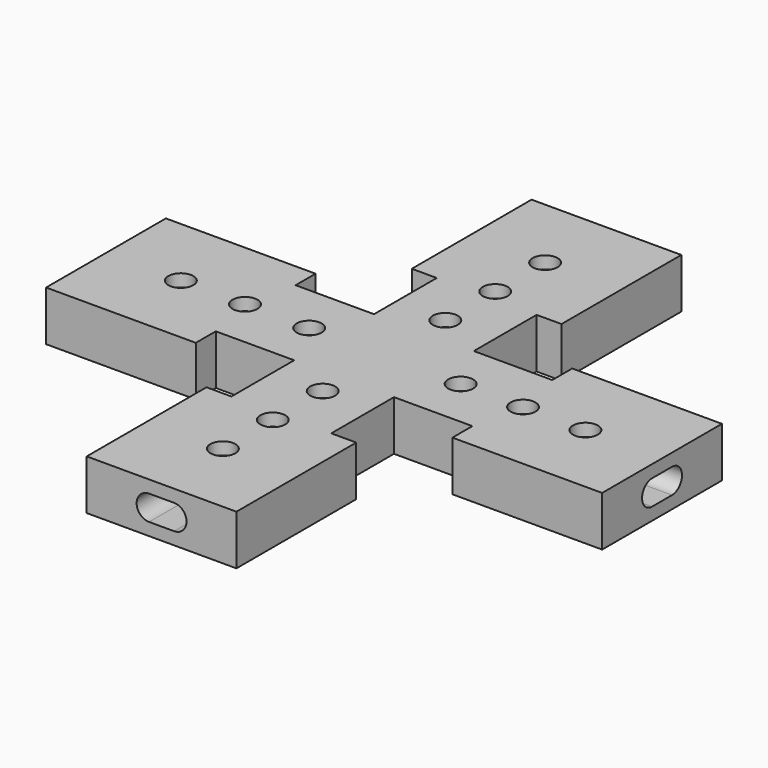
from build123d import *

# Parameters (mm, degrees)
F0_W           = 45.71068
F0_H           = 20
F0_W_2         = 20
F0_H_2         = 45.71068
F1_DEPTH       = 5
F4_DEPTH       = 120
F6_DEPTH       = 5
F6_DEPTH_BACK  = 25
F7_W           = 30
F7_H           = 10
F8_DEPTH       = 5
F8_DEPTH_BACK  = 25
F9_W           = 30
F9_H           = 10
F10_DEPTH      = 5
F10_DEPTH_BACK = 25
F11_W          = 30
F11_H          = 10
F12_DEPTH      = 5
F12_DEPTH_BACK = 25
F13_R          = 2.5
F14_DEPTH      = 10
F15_DEPTH      = 116.7
F16_DEPTH      = 135


with BuildPart() as f1:
    # F0 (on Top) → F1 (new body, symmetric)
    with BuildSketch(Plane.XY):
        with Locations((32.85534, 0)):
            Rectangle(F0_W, F0_H)
        Rectangle(F0_W_2, F0_H)
        with Locations((0, 32.85534)):
            Rectangle(F0_W_2, F0_H_2)
        with Locations((-32.85534, 0)):
            Rectangle(F0_W, F0_H)
        with Locations((0, -32.85534)):
            Rectangle(F0_W_2, F0_H_2)
    extrude(amount=F1_DEPTH, both=True)

    # F2 (on face) → F4 (cut)
    with BuildSketch(Plane.XZ.offset(55.71068)):
        with BuildLine():
            Line((-2.5, -2.5), (2.5, -2.5))
            ThreePointArc((2.5, -2.5), (5, 0), (2.5, 2.5))
            Line((2.5, 2.5), (-2.5, 2.5))
            ThreePointArc((-2.5, 2.5), (-5, 0), (-2.5, -2.5))
        make_face()
    extrude(amount=-F4_DEPTH, mode=Mode.SUBTRACT)

    # F5 (on face) → F6 (join, two sides)
    with BuildSketch(Plane.YZ.offset(10)) as f6_sk:
        Polygon((-25.71068, 5), (-55.71068, 5), (-55.71068, 0), (-55.71068, -5), (-25.71068, -5), align=None)
    extrude(amount=F6_DEPTH)
    extrude(f6_sk.sketch, amount=-F6_DEPTH_BACK)

    # F7 (on face) → F8 (join, two sides)
    with BuildSketch(Plane(origin=(-10, 0, 0), x_dir=(0, -1, 0), z_dir=(-1, 0, 0))) as f8_sk:
        with Locations((-40.71068, 0)):
            Rectangle(F7_W, F7_H)
    extrude(amount=F8_DEPTH)
    extrude(f8_sk.sketch, amount=-F8_DEPTH_BACK)

    # F9 (on face) → F10 (join, two sides)
    with BuildSketch(Plane(origin=(0, 10, 0), x_dir=(-1, 0, 0), z_dir=(0, 1, 0))) as f10_sk:
        with Locations((-40.71068, 0)):
            Rectangle(F9_W, F9_H)
    extrude(amount=F10_DEPTH)
    extrude(f10_sk.sketch, amount=-F10_DEPTH_BACK)

    # F11 (on face) → F12 (join, two sides)
    with BuildSketch(Plane(origin=(0, 10, 0), x_dir=(-1, 0, 0), z_dir=(0, 1, 0))) as f12_sk:
        with Locations((40.71068, 0)):
            Rectangle(F11_W, F11_H)
    extrude(amount=F12_DEPTH)
    extrude(f12_sk.sketch, amount=-F12_DEPTH_BACK)

    # F13 (on face) → F14 (cut)
    with BuildSketch(Plane.XY.offset(5)):
        with Locations((-27.85534, 0)):
            Circle(F13_R)
        with Locations((-15, 0)):
            Circle(F13_R)
        with Locations((-40.71068, 0)):
            Circle(F13_R)
        with Locations((27.85534, 0)):
            Circle(F13_R)
        with Locations((40.35534, 0)):
            Circle(F13_R)
        with Locations((15.35534, 0)):
            Circle(F13_R)
        with Locations((0, 27.85534)):
            Circle(F13_R)
        with Locations((0, 40.35534)):
            Circle(F13_R)
        with Locations((0, 15.35534)):
            Circle(F13_R)
        with Locations((0, -27.85534)):
            Circle(F13_R)
        with Locations((0, -15.35534)):
            Circle(F13_R)
        with Locations((0, -40.35534)):
            Circle(F13_R)
    extrude(amount=-F14_DEPTH, mode=Mode.SUBTRACT)

    # F2 (on face) → F15 (cut)
    with BuildSketch(Plane.XZ.offset(55.71068)):
        with BuildLine():
            Line((-2.5, -2.5), (2.5, -2.5))
            ThreePointArc((2.5, -2.5), (5, 0), (2.5, 2.5))
            Line((2.5, 2.5), (-2.5, 2.5))
            ThreePointArc((-2.5, 2.5), (-5, 0), (-2.5, -2.5))
        make_face()
    extrude(amount=-F15_DEPTH, mode=Mode.SUBTRACT)

    # F3 (on face) → F16 (cut)
    with BuildSketch(Plane.YZ.offset(55.71068)):
        with BuildLine():
            Line((-2.5, -2.5), (2.5, -2.5))
            ThreePointArc((2.5, -2.5), (5, 0), (2.5, 2.5))
            Line((2.5, 2.5), (-2.5, 2.5))
            ThreePointArc((-2.5, 2.5), (-5, 0), (-2.5, -2.5))
        make_face()
    extrude(amount=-F16_DEPTH, mode=Mode.SUBTRACT)


solid = f1.part
